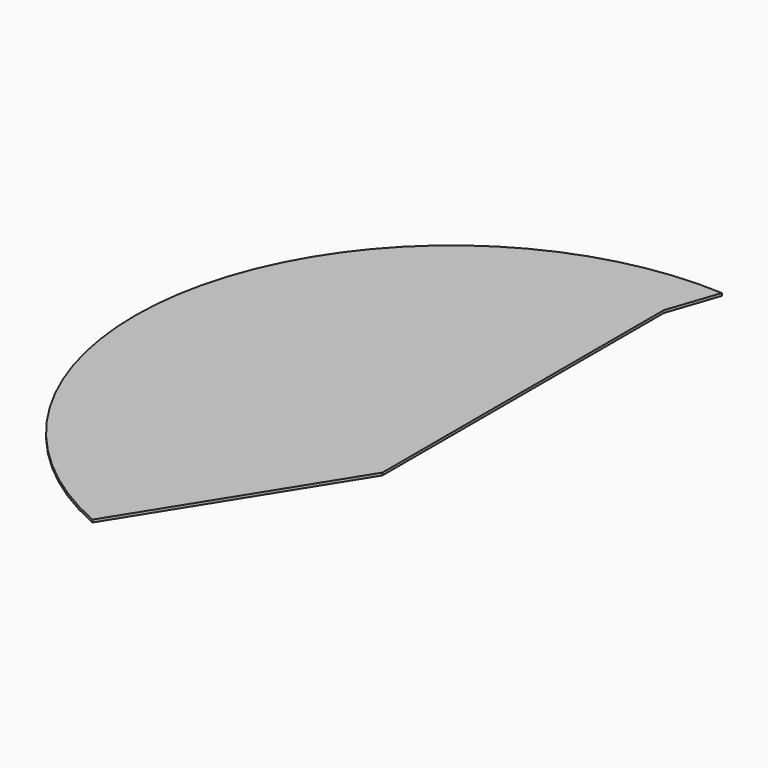
from build123d import *

# Parameters (mm, degrees)
F1_DEPTH = 3


with BuildPart() as f1:
    # F0 (on Top) → F1 (new body)
    with BuildSketch(Plane.XY):
        with BuildLine():
            Line((-17.870255, 414.621119), (2.345661, 474.068432))
            ThreePointArc((2.345661, 474.068432), (-377.797369, 190.367681), (-166.401004, -234.257349))
            Line((-166.401004, -234.257349), (-17.870255, 3.655279))
            Line((-17.870255, 3.655279), (-17.870255, 104.621119))
            Line((-17.870255, 104.621119), (-17.870255, 414.621119))
        make_face()
    extrude(amount=F1_DEPTH)


solid = f1.part
